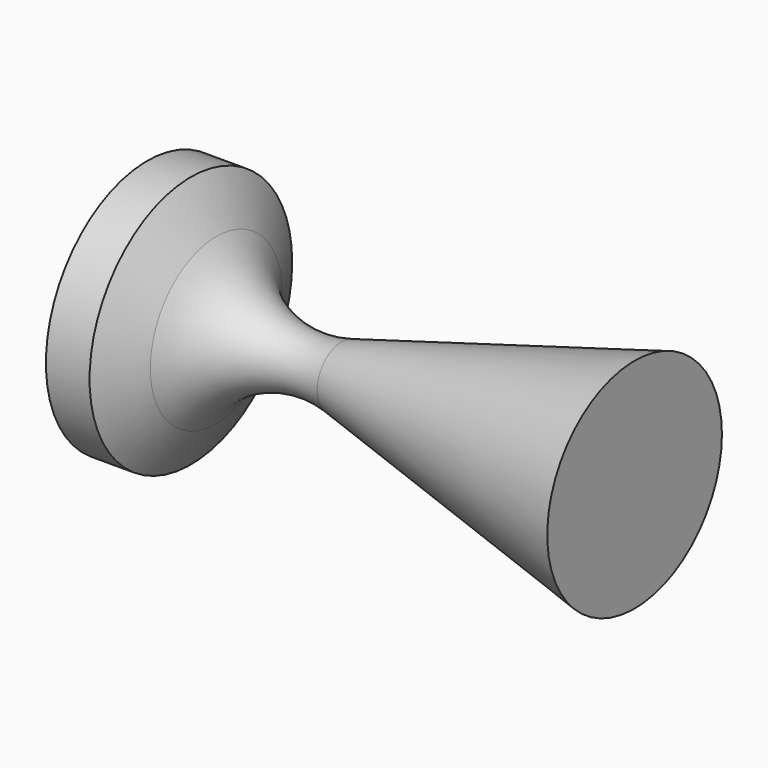
from build123d import *

# Parameters (mm, degrees)
REVOLUTION_FACE4_R = 145
PAD_DEPTH          = 50


with BuildPart() as part:
    # Sketch → Revolution (revolve)
    with BuildSketch(Plane.XY):
        with BuildLine():
            ThreePointArc((-110.418239, 94.5), (-48.792138, 40.45536), (32.999428, 35.094457))
            Line((32.999428, 35.094457), (368.531482, 125))
            Line((368.531482, 125), (368.531482, 0))
            Line((-139.574428, 0), (368.531482, 0))
            Line((-139.574428, 145), (-139.574428, 0))
            Line((-139.574428, 145), (-110.418239, 94.5))
        make_face()
    revolve(axis=Axis((0, 0, 0), (1, 0, 0)))

    # Revolution Face4 → Pad (new)
    with BuildSketch(Plane(origin=(-139.574428, 0, 0), x_dir=(0, 1, 0), z_dir=(-1, 0, 0))):
        Circle(REVOLUTION_FACE4_R)
    extrude(amount=PAD_DEPTH)


solid = part.part
